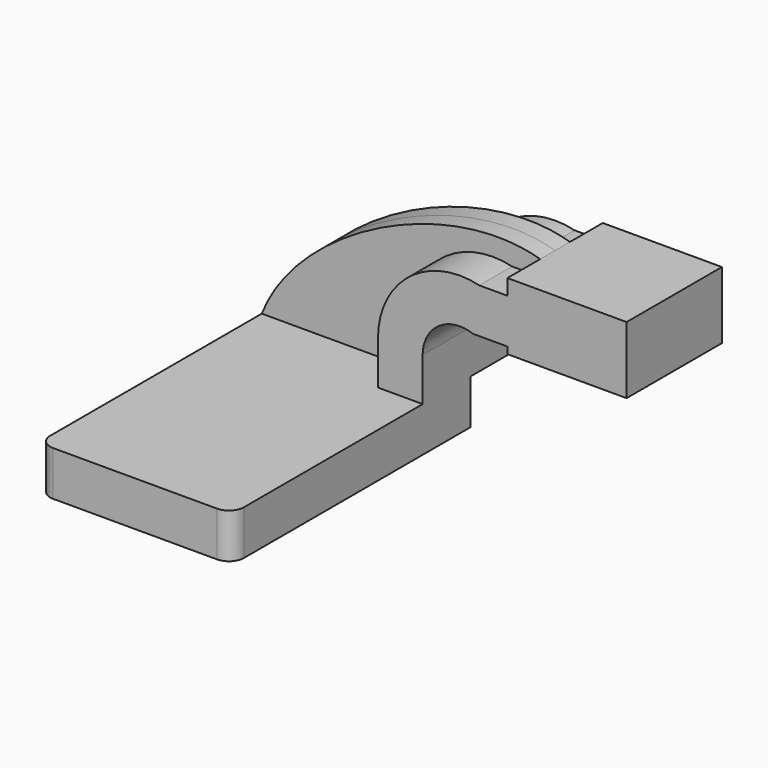
from build123d import *

# Parameters (mm, degrees)
F1_DEPTH = 127
F2_DEPTH = 25.4
F3_DEPTH = 7.9375
F4_R     = 6.35


with BuildPart() as f1:
    # F0 (on Front) → F1 (new body)
    with BuildSketch(Plane.XZ):
        Polygon((-41.275, 9.525), (-41.275, -9.525), (41.275, -9.525), (41.275, 9.525), (22.225, 9.525), align=None)
    extrude(amount=F1_DEPTH)

    # F0 (on Front) → F2 (join, symmetric)
    with BuildSketch(Plane.XZ):
        with BuildLine():
            Line((22.225, 9.525), (41.275, 9.525))
            Line((41.275, 9.525), (41.275, 27.991311))
            ThreePointArc((41.275, 27.991311), (48.084572, 41.023334), (62.671364, 42.8752))
            Line((62.671364, 42.8752), (77.398849, 42.8752))
            Line((77.398849, 42.8752), (77.398849, 61.9252))
            Line((77.398849, 61.9252), (65.411161, 61.9252))
            ThreePointArc((65.411161, 61.9252), (35.571833, 55.45289), (22.225, 27.991311))
            Line((22.225, 27.991311), (22.225, 9.525))
        make_face()
        Polygon((128.198849, 68.58), (77.398849, 68.58), (77.398849, 61.9252), (77.398849, 42.8752), (77.398849, 40.005), (128.198849, 40.005), align=None)
    extrude(amount=F2_DEPTH, both=True)

    # F0 (on Front) → F3 (join, symmetric)
    with BuildSketch(Plane.XZ):
        with BuildLine():
            add(Edge.make_bspline(
                [(-41.275, 9.525), (-25.932714, 48.888751), (38.354626, 80.090507), (77.398849, 68.58)],
                knots=[0, 0, 0, 0, 132.555556, 132.555556, 132.555556, 132.555556], degree=3))
            Line((-41.275, 9.525), (22.225, 9.525))
            Line((22.225, 9.525), (22.225, 27.991311))
            ThreePointArc((22.225, 27.991311), (35.571833, 55.45289), (65.411161, 61.9252))
            Line((65.411161, 61.9252), (77.398849, 61.9252))
            Line((77.398849, 61.9252), (77.398849, 68.58))
        make_face()
    extrude(amount=F3_DEPTH, both=True)

    # F4
    f4_edges = [f1.edges().sort_by_distance(p)[0] for p in [
        (-41.275, -127, 0),
        (41.275, -127, 0),
    ]]
    fillet(f4_edges, radius=F4_R)


solid = f1.part
